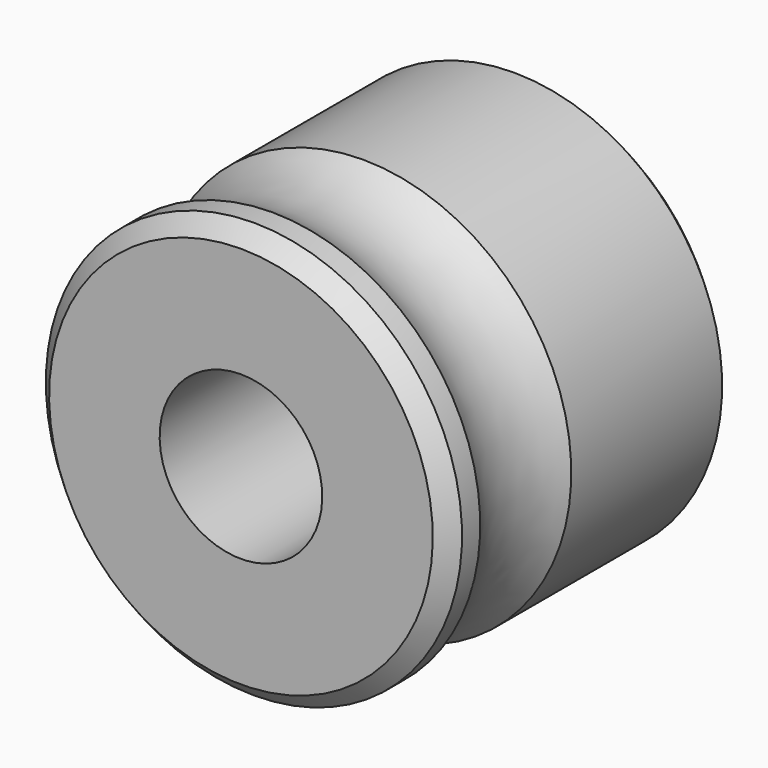
from build123d import *

# Parameters (mm, degrees)
F3_SIZE = 0.5


with BuildPart() as f2:
    # F0 (on Right) → F2 (revolve)
    with BuildSketch(Plane.YZ):
        with BuildLine():
            Line((-5.5, 6.4), (-5.5, 2.5))
            Line((-5.5, 2.5), (5.5, 2.5))
            Line((5.5, 2.5), (5.5, 6.4))
            Line((5.5, 6.4), (-0.8, 6.4))
            ThreePointArc((-0.8, 6.4), (-2.55, 5.836699), (-4.3, 6.4))
            Line((-4.3, 6.4), (-5.5, 6.4))
        make_face()
    revolve(axis=Axis((0, 2.864314, 0), (0, 1, 0)))

    # F3
    f3_edges = [f2.edges().sort_by_distance(p)[0] for p in [
        (0, -5.5, -6.4),
        (0, 5.5, -6.4),
    ]]
    chamfer(f3_edges, length=F3_SIZE)


solid = f2.part
